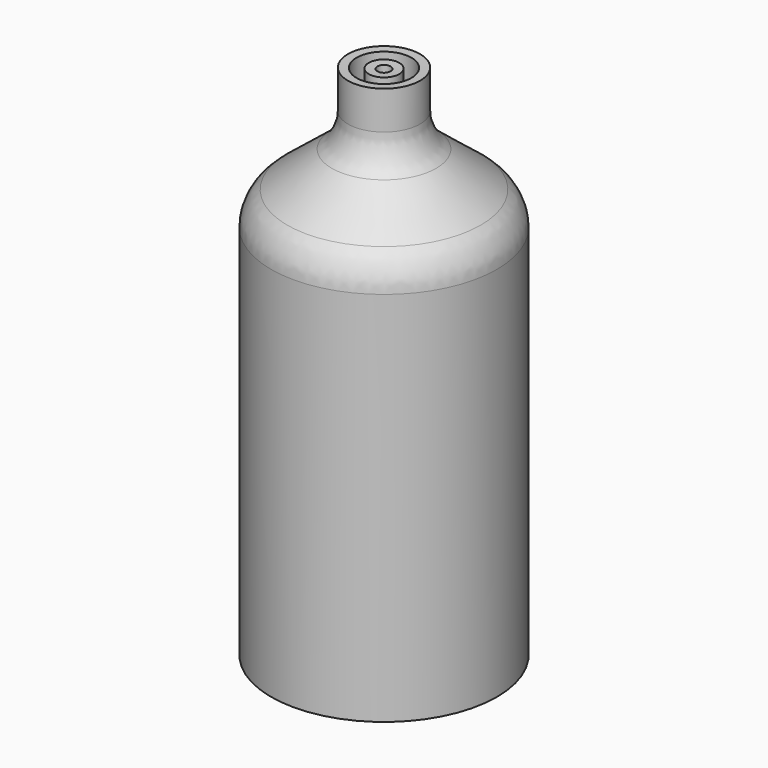
from build123d import *

# Parameters (mm, degrees)
F3_R = 12.7
F4_T = -2.54


with BuildPart() as f2:
    # F0 (on Front) → F2 (revolve)
    with BuildSketch(Plane.XZ):
        Polygon((0, -76.0418921709), (0, 76.0156810284), (-8.6687002331, 76.3955637813), (-8.6687002331, 59.0391717851), (-31.3122980297, 40.9342460334), (-31.3122980297, -76.0418921709), align=None)
    revolve(axis=Axis((1.9537888002, 0, -0.1578219235), (0, 0, -1)))

    # F3
    f3_edges = [f2.edges().sort_by_distance(p)[0] for p in [
        (35.219876, 0, 40.934246),
        (12.576278, 0, 59.039172),
    ]]
    fillet(f3_edges, radius=F3_R)

    # F4
    f4_openings = [f2.faces().sort_by_distance(p)[0] for p in [
        (8.241928, 0, 76.205622),
    ]]
    offset(amount=F4_T, openings=f4_openings)


solid = f2.part
